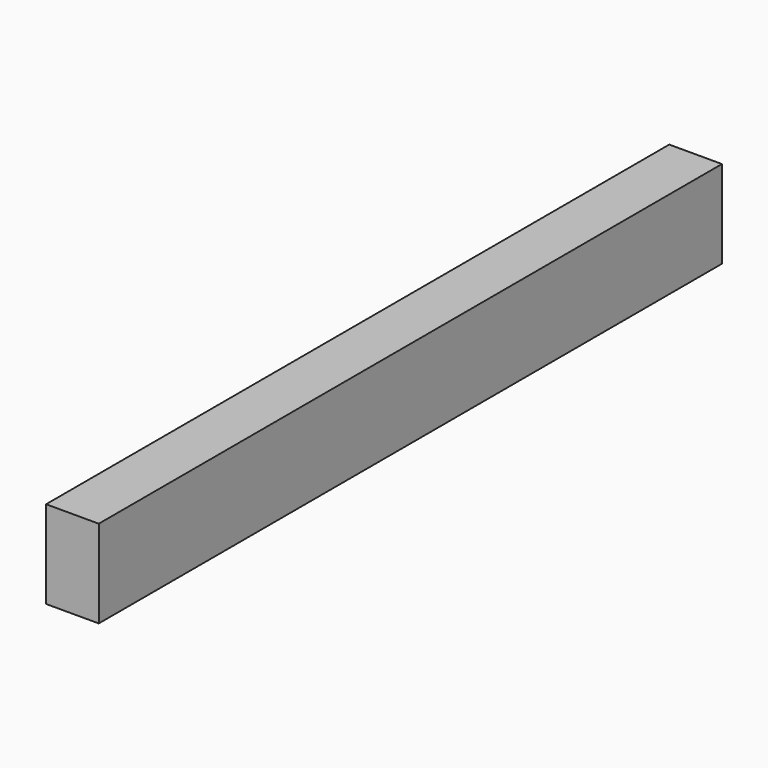
from build123d import *

# Parameters (mm, degrees)
SKETCH_W  = 60
SKETCH_H  = 100
PAD_DEPTH = 443.5


with BuildPart() as part:
    # Sketch → Pad (new body, symmetric)
    with BuildSketch(Plane.XZ):
        Rectangle(SKETCH_W, SKETCH_H)
    extrude(amount=PAD_DEPTH, both=True)


solid = part.part
